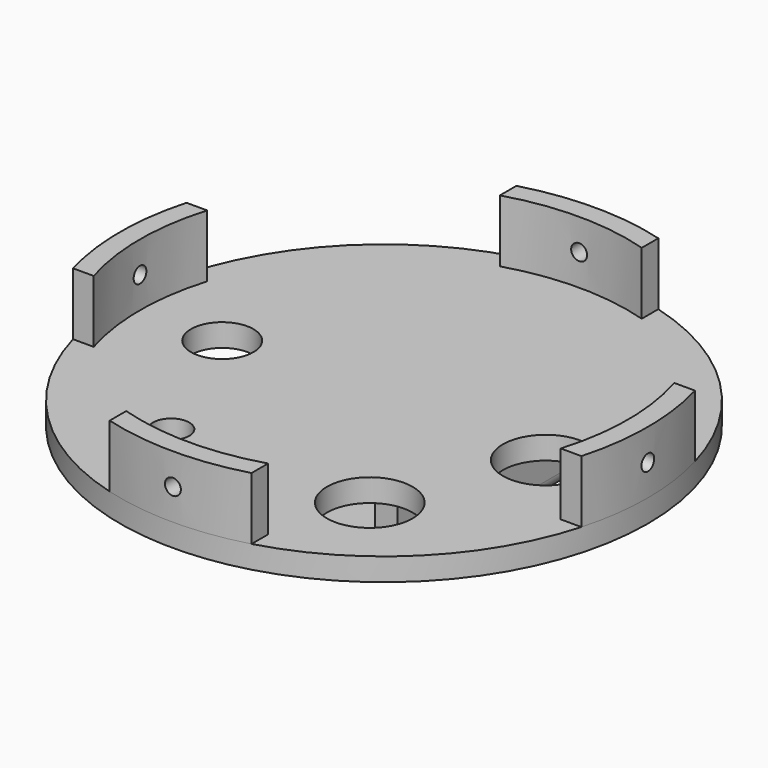
from build123d import *

# Parameters (mm, degrees)
EXTRUDE020_DEPTH  = 10
CYLINDER133_R     = 2.8
CYLINDER133_DEPTH = 300
CYLINDER134_R     = 2.8
CYLINDER134_DEPTH = 300
EXTRUDE023_DEPTH  = 30
SKETCH037_R       = 93
SKETCH037_R_2     = 11
SKETCH037_R_3     = 15.1
SKETCH037_R_4     = 6.4
EXTRUDE019_DEPTH  = 8
EXTRUDE036_DEPTH  = 100
FILLET008_R       = 5
FILLET009_R       = 2
FILLET010_R       = 5


with BuildPart() as obj1:
    # Sketch038 → Extrude020 (new body)
    with BuildSketch(Plane.XY):
        with BuildLine():
            ThreePointArc((-5, -220), (0, -225), (5, -220))
            Line((5, -220), (5, -212.5))
            ThreePointArc((5, -212.5), (0, -207.5), (-5, -212.5))
            Line((-5, -212.5), (-5, -220))
        make_face()
    extrude(amount=EXTRUDE020_DEPTH)


with BuildPart() as obj1_1:
    # Extrude020 placement: moved
    add(obj1.part.moved(Location((0, 0, -246.5))))


with BuildPart() as cylinder133:
    # Cylinder133 → Cylinder133 (new body)
    with BuildSketch(Plane(origin=(0, 0, 90), x_dir=(1, 0, 0), z_dir=(0, -1, 0))):
        Circle(CYLINDER133_R)
    extrude(amount=CYLINDER133_DEPTH)


with BuildPart() as m4heatsetcuts001:
    # Cylinder134 → Cylinder134 (new body)
    with BuildSketch(Plane(origin=(-150, -150, 90), x_dir=(0, 1, 0), z_dir=(1, 0, 0))):
        Circle(CYLINDER134_R)
    extrude(amount=CYLINDER134_DEPTH)

    # Fusion085: union Cylinder133
    add(cylinder133.part)


with BuildPart() as m4heatsetcuts001_1:
    # Fusion085 placement: moved
    add(m4heatsetcuts001.part.moved(Location((0, 0, -321))))


with BuildPart() as obj2:
    # Sketch041 → Extrude023 (new body)
    with BuildSketch(Plane.XY):
        with BuildLine():
            ThreePointArc((-89.576783, -125), (-93, -150), (-89.576783, -175))
            Line((-89.576783, -175), (-82.286086, -175))
            ThreePointArc((-82.286086, -125), (-86, -150), (-82.286086, -175))
            Line((-89.576783, -125), (-82.286086, -125))
        make_face()
        with BuildLine():
            ThreePointArc((25, -60.423217), (0, -57), (-25, -60.423217))
            Line((-25, -60.423217), (-25, -67.713914))
            ThreePointArc((25, -67.713914), (0, -64), (-25, -67.713914))
            Line((25, -60.423217), (25, -67.713914))
        make_face()
        with BuildLine():
            ThreePointArc((89.576783, -175), (93, -150), (89.576783, -125))
            Line((89.576783, -125), (82.286086, -125))
            ThreePointArc((82.286086, -175), (86, -150), (82.286086, -125))
            Line((89.576783, -175), (82.286086, -175))
        make_face()
        with BuildLine():
            ThreePointArc((-25, -239.576783), (0, -243), (25, -239.576783))
            Line((25, -239.576783), (25, -232.286086))
            ThreePointArc((-25, -232.286086), (0, -236), (25, -232.286086))
            Line((-25, -239.576783), (-25, -232.286086))
        make_face()
    extrude(amount=EXTRUDE023_DEPTH)


with BuildPart() as obj2_1:
    # Extrude023 placement: moved
    add(obj2.part.moved(Location((0, 0, -250))))


with BuildPart() as level5s:
    # Sketch037 → Extrude019 (new body)
    with BuildSketch(Plane.XY):
        with Locations((0, -150)):
            Circle(SKETCH037_R)
        with Locations((-57, -150)):
            Circle(SKETCH037_R_2, mode=Mode.SUBTRACT)
        with Locations((57, -150)):
            Circle(SKETCH037_R_3, mode=Mode.SUBTRACT)
        with Locations((35, -200)):
            Circle(SKETCH037_R_3, mode=Mode.SUBTRACT)
        with Locations((-35, -200)):
            Circle(SKETCH037_R_4, mode=Mode.SUBTRACT)
        with BuildLine():
            ThreePointArc((-3.2, -216.158125), (0, -225), (3.2, -216.158125))
            Line((3.2, -216.158125), (3.2, -212.5))
            ThreePointArc((3.2, -212.5), (0, -209.3), (-3.2, -212.5))
            Line((-3.2, -212.5), (-3.2, -216.158125))
        make_face(mode=Mode.SUBTRACT)
    extrude(amount=EXTRUDE019_DEPTH)


with BuildPart() as level5s_1:
    # Extrude019 placement: moved
    add(level5s.part.moved(Location((0, 0, -250))))

    # Fusion083: union obj2
    add(obj2_1.part)

    # Cut035: cut m4HeatSetCuts001
    add(m4heatsetcuts001_1.part, mode=Mode.SUBTRACT)

    # Cut041: cut obj1
    add(obj1_1.part, mode=Mode.SUBTRACT)


with BuildPart() as fillet010:
    # Sketch054 → Extrude036 (new body)
    with BuildSketch(Plane.XZ):
        Polygon((-20.75, -250), (-12.75, -250), (-12.75, -275.75), (12.75, -275.75), (12.75, -250), (20.75, -250), (20.75, -283.75), (-20.75, -283.75), align=None)
    extrude(amount=EXTRUDE036_DEPTH)


with BuildPart() as fillet010_1:
    # Extrude036 placement: moved
    add(fillet010.part.moved(Location((0, -70, 0))))

    # Fillet008
    fillet008_edges = [fillet010_1.edges().sort_by_distance(p)[0] for p in [
        (20.75, -120, -283.75),
        (-20.75, -120, -283.75),
    ]]
    fillet(fillet008_edges, radius=FILLET008_R)

    # Fillet009
    fillet009_edges = [fillet010_1.edges().sort_by_distance(p)[0] for p in [
        (12.75, -120, -275.75),
        (-12.75, -120, -275.75),
    ]]
    fillet(fillet009_edges, radius=FILLET009_R)

    # Fusion104: union level5s
    add(level5s_1.part)

    # Fillet010
    fillet010_edges = [fillet010_1.edges().sort_by_distance(p)[0] for p in [
        (-20.75, -120, -250),
        (20.75, -120, -250),
    ]]
    fillet(fillet010_edges, radius=FILLET010_R)


solid = fillet010_1.part
